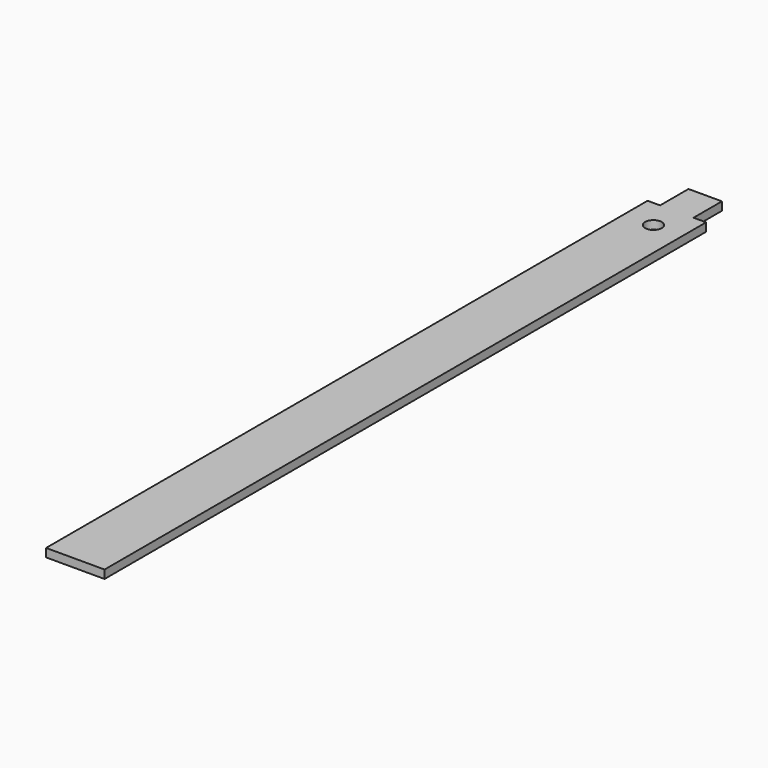
from build123d import *

# Parameters (mm, degrees)
F0_R     = 0.254
F1_DEPTH = 0.254


with BuildPart() as f1:
    # F0 (on Top) → F1 (new body)
    with BuildSketch(Plane.XY):
        Polygon((-0.889, -11.43), (0.889, -11.43), (0.889, 11.43), (0.508, 11.43), (0.508, 12.508834), (-0.508, 12.508834), (-0.508, 11.43), (-0.889, 11.43), align=None)
        with Locations((0, 10.541)):
            Circle(F0_R, mode=Mode.SUBTRACT)
    extrude(amount=F1_DEPTH)


solid = f1.part
